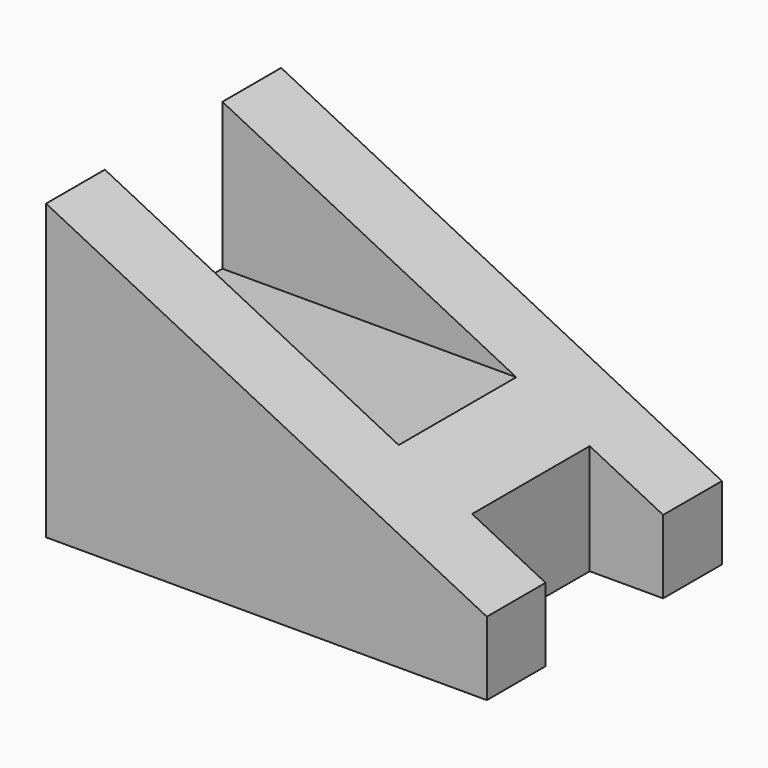
from build123d import *

# Parameters (mm, degrees)
F1_DEPTH = 20
F2_W     = 10
F2_H     = 2.5
F2_H_2   = 5
F3_DEPTH = 5
F4_W     = 10
F4_H     = 10
F5_DEPTH = 30.001


with BuildPart() as f1:
    # F0 (on Front) → F1 (new body)
    with BuildSketch(Plane.XZ):
        Polygon((0, 20), (0, 0), (30, 0), (30, 5), align=None)
    extrude(amount=-F1_DEPTH)

    # F2 (on face) → F3 (cut)
    with BuildSketch(Plane.YZ.offset(30)):
        with Locations((10, 6.25)):
            Rectangle(F2_W, F2_H)
        with Locations((10, 2.5)):
            Rectangle(F2_W, F2_H_2)
    extrude(amount=-F3_DEPTH, mode=Mode.SUBTRACT)

    # F4 (on face) → F5 (cut, through all)
    with BuildSketch(Plane(origin=(0, 0, 0), x_dir=(0, -1, 0), z_dir=(-1, 0, 0))):
        with Locations((-10, 15)):
            Rectangle(F4_W, F4_H)
    extrude(amount=-F5_DEPTH, mode=Mode.SUBTRACT)


solid = f1.part
